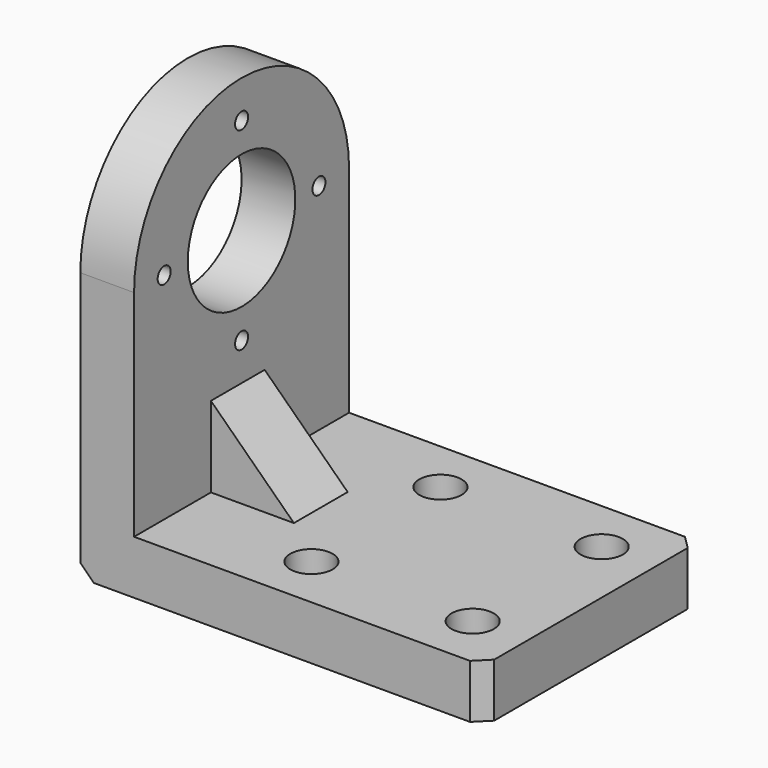
from build123d import *

# Parameters (mm, degrees)
F0_W           = 300
F0_H           = 200
F1_DEPTH       = 40
F2_R           = 15.75
F2_R_2         = 15.748
F3_DEPTH       = 20
F4_R           = 8.75
F4_R_2         = 8.7503
F5_DEPTH       = 40.001
F6_W           = 40
F6_H           = 200
F7_DEPTH       = 260
F8_R           = 50
F9_DEPTH       = 300.001
F11_D          = 12.1
F12_SIZE       = 10
F14_DEPTH      = 25
F14_DEPTH_BACK = 25


with BuildPart() as f1:
    # F0 (on Top) → F1 (new body)
    with BuildSketch(Plane.XY):
        with Locations((-9.0769985841, 3.5027405247)):
            Rectangle(F0_W, F0_H)
    extrude(amount=F1_DEPTH)

    # F2 (on face) → F3 (cut)
    with BuildSketch(Plane.XY.offset(40)):
        with Locations((100.9230014159, 63.5027405247)):
            Circle(F2_R)
        with Locations((100.9230014159, -56.4972594753)):
            Circle(F2_R)
        with Locations((-19.0769985841, 63.4977405247)):
            Circle(F2_R_2)
        with Locations((-19.0769985841, -56.4922594753)):
            Circle(F2_R_2)
    extrude(amount=-F3_DEPTH, mode=Mode.SUBTRACT)

    # F4 (on face) → F5 (cut, through all)
    with BuildSketch(Plane.XY.offset(40)):
        with Locations((-19.0769985841, 63.4977405247)):
            Circle(F4_R)
        with Locations((100.9230014159, 63.5027405247)):
            Circle(F4_R_2)
        with Locations((-19.0769985841, -56.4922594753)):
            Circle(F4_R_2)
        with Locations((100.9230014159, -56.4972594753)):
            Circle(F4_R_2)
    extrude(amount=-F5_DEPTH, mode=Mode.SUBTRACT)

    # F6 (on face) → F7 (join)
    with BuildSketch(Plane.XY.offset(40)):
        with Locations((-139.0769985841, 3.5027405247)):
            Rectangle(F6_W, F6_H)
    extrude(amount=F7_DEPTH)

    # F8 (on face) → F9 (cut, through all)
    with BuildSketch(Plane(origin=(-159.0769985841, 0, 0), x_dir=(0, -1, 0), z_dir=(-1, 0, 0))):
        with Locations((-3.5027405247, 200)):
            Circle(F8_R)
        with BuildLine():
            ThreePointArc((-3.5027399336, 300), (67.2079378029, 270.7106779097), (96.4972594753, 200))
            Line((96.4972594753, 200), (96.4972594753, 300))
            Line((96.4972594753, 300), (-3.5027399336, 300))
        make_face()
        with BuildLine():
            ThreePointArc((-103.5027405247, 200), (-74.2134184344, 270.7106783276), (-3.5027399336, 300))
            Line((-3.5027399336, 300), (-103.5027405247, 300))
            Line((-103.5027405247, 300), (-103.5027405247, 200))
        make_face()
    extrude(amount=-F9_DEPTH, mode=Mode.SUBTRACT)

    # F11 (through all)
    with Locations(Plane.YZ.offset(-119.0769985841)):
        with Locations((3.5027405247, 272), (75.5027405247, 200), (3.5027405247, 128), (-68.4972594753, 200)):
            Hole(F11_D / 2)

    # F12
    f12_edges = [f1.edges().sort_by_distance(p)[0] for p in [
        (140.923001, -96.497259, 20),
        (140.923001, 103.502741, 20),
        (-159.076999, 3.502741, 0),
    ]]
    chamfer(f12_edges, length=F12_SIZE)

    # F13 (on Front) → F14 (join, two sides)
    with BuildSketch(Plane.XZ) as f14_sk:
        Polygon((-119.0769985841, 100), (-119.0769985841, 40), (-57.3225580156, 40), align=None)
    extrude(amount=F14_DEPTH)
    extrude(f14_sk.sketch, amount=-F14_DEPTH_BACK)


solid = f1.part
